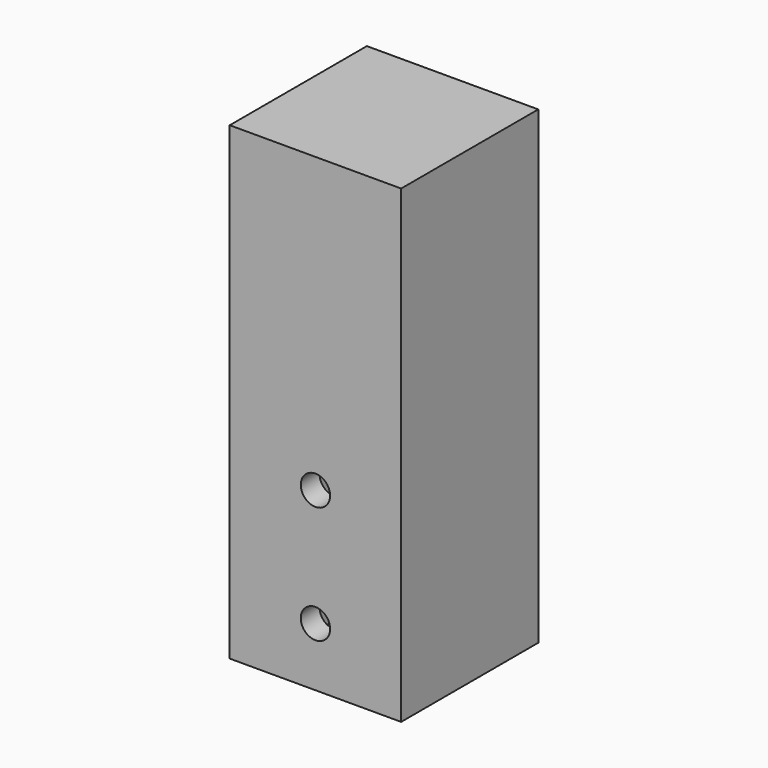
from build123d import *

# Parameters (mm, degrees)
F0_W     = 37.084
F0_H     = 37.084
F1_DEPTH = 101.6
F2_W     = 26.924
F2_H     = 26.924
F3_DEPTH = 50.8
F4_R     = 3.175
F5_DEPTH = 37.085
F6_R     = 3.175
F7_DEPTH = 37.085


with BuildPart() as f1:
    # F0 (on Top) → F1 (new body)
    with BuildSketch(Plane.XY):
        Rectangle(F0_W, F0_H)
    extrude(amount=F1_DEPTH)

    # F2 (on face) → F3 (cut)
    with BuildSketch(Plane(origin=(0, 0, 0), x_dir=(1, 0, 0), z_dir=(0, 0, -1))):
        Rectangle(F2_W, F2_H)
    extrude(amount=-F3_DEPTH, mode=Mode.SUBTRACT)

    # F4 (on face) → F5 (cut, through all)
    with BuildSketch(Plane.XZ.offset(18.542)):
        with Locations((0, 12.7)):
            Circle(F4_R)
    extrude(amount=-F5_DEPTH, mode=Mode.SUBTRACT)

    # F6 (on face) → F7 (cut, through all)
    with BuildSketch(Plane.XZ.offset(18.542)):
        with Locations((0, 38.1)):
            Circle(F6_R)
    extrude(amount=-F7_DEPTH, mode=Mode.SUBTRACT)


solid = f1.part
